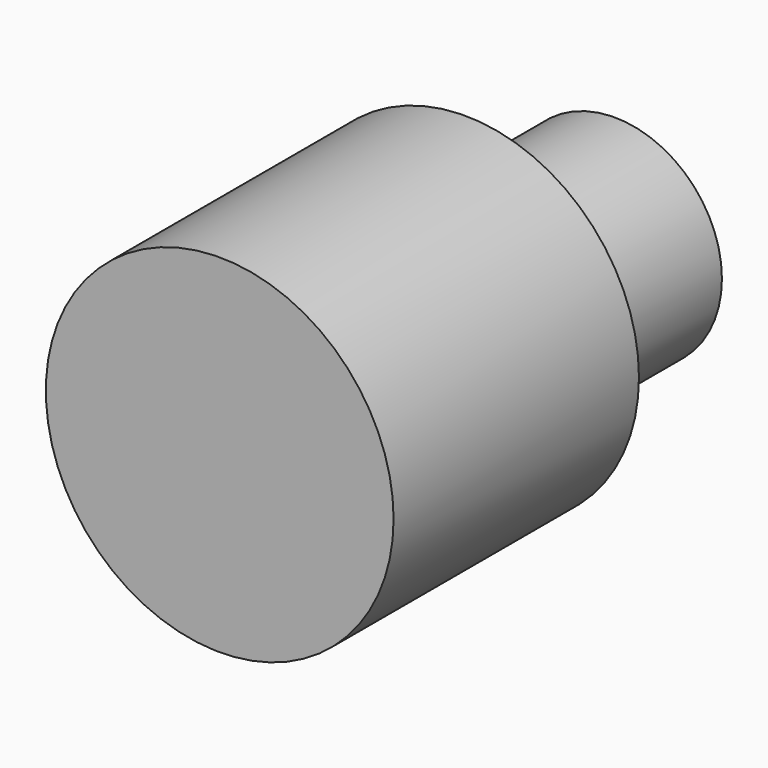
from build123d import *

# Parameters (mm, degrees)
F0_R     = 59.2972087989
F0_R_2   = 45.1420859197
F1_DEPTH = 104.6
F2_R     = 36.5663983405
F3_DEPTH = 173.2


with BuildPart() as f1:
    # F0 (on Front) → F1 (new body)
    with BuildSketch(Plane.XZ):
        Circle(F0_R)
        Circle(F0_R_2, mode=Mode.SUBTRACT)
        Circle(F0_R_2)
    extrude(amount=F1_DEPTH)

    # F2 (on face) → F3 (join)
    with BuildSketch(Plane.XZ.offset(104.6)):
        with Locations((-3.8598105311, -6.9155511446)):
            Circle(F2_R)
    extrude(amount=-F3_DEPTH)


solid = f1.part
